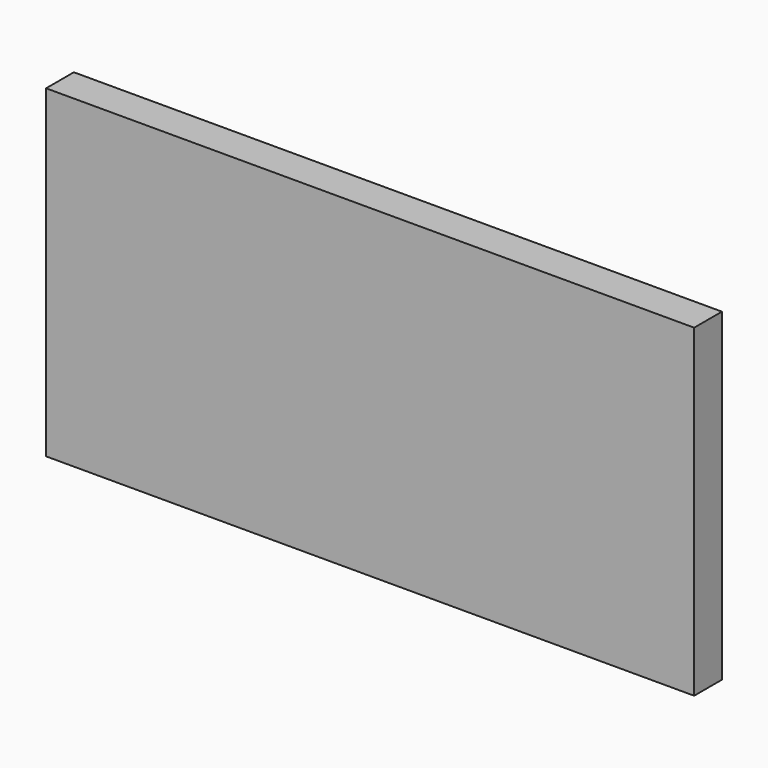
from build123d import *

# Parameters (mm, degrees)
F0_W     = 355.6
F0_H     = 177.8
F1_DEPTH = 19.05
F3_DEPTH = 19.05


with BuildPart() as f1:
    # F0 (on Front) → F1 (new body)
    with BuildSketch(Plane.XZ):
        with Locations((177.8, 88.9)):
            Rectangle(F0_W, F0_H)
    extrude(amount=F1_DEPTH)

    # F2 (on Right) → F3 (cut)
    with BuildSketch(Plane.YZ):
        Polygon((0, 143.810647), (-12.7, 146.05), (-12.7, 107.95), (0, 110.189353), align=None)
        Polygon((0, 38.468058), (0, 72.089353), (-12.7, 74.328705), (-12.7, 36.228705), align=None)
    extrude(amount=F3_DEPTH, mode=Mode.SUBTRACT)


solid = f1.part
